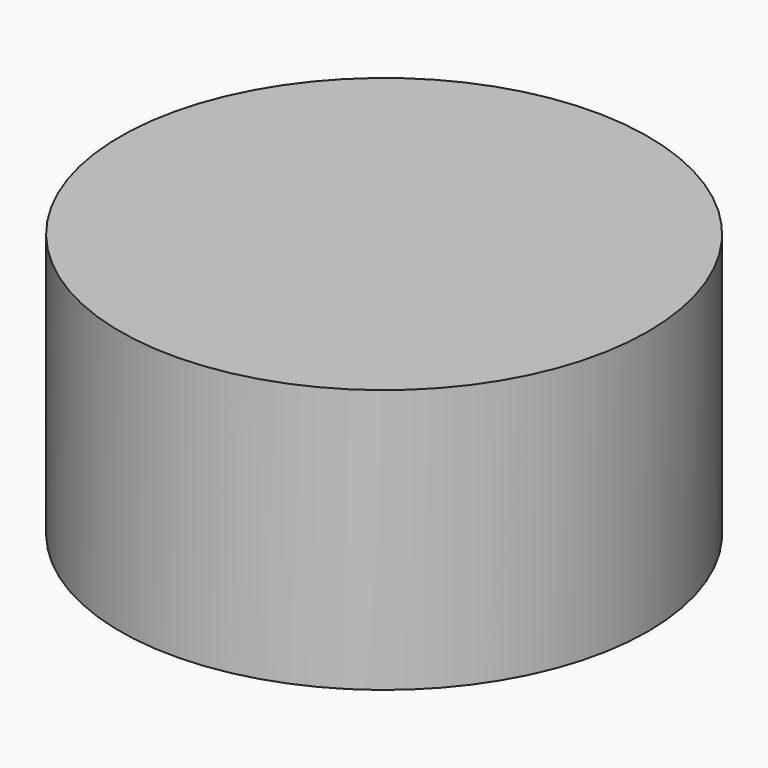
from build123d import *

# Parameters (mm, degrees)
F1_R     = 5.08
F2_DEPTH = 5.08


with BuildPart() as f2:
    # F1 (on face) → F2 (new body)
    with BuildSketch(Plane.XY):
        with Locations((0.539228, 1.790942)):
            Circle(F1_R)
    extrude(amount=-F2_DEPTH)


solid = f2.part
